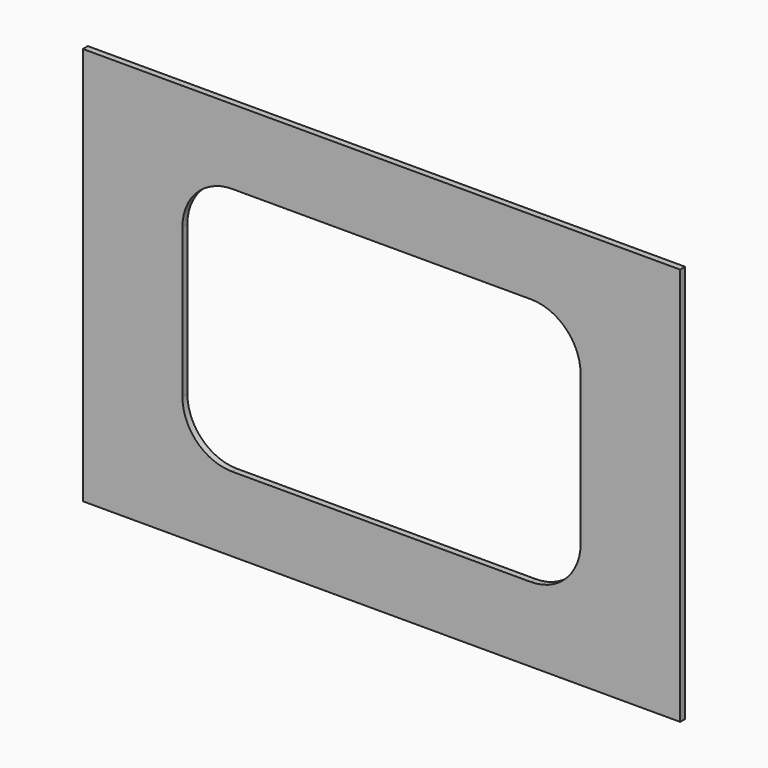
from build123d import *

# Parameters (mm, degrees)
F0_W     = 304.8
F0_H     = 203.2
F1_DEPTH = 3.175
F2_W     = 203.2
F2_H     = 127
F3_DEPTH = 25.4
F4_R     = 25.4


with BuildPart() as f1:
    # F0 (on Front) → F1 (new body)
    with BuildSketch(Plane.XZ):
        Rectangle(F0_W, F0_H)
    extrude(amount=F1_DEPTH)

    # F2 (on face) → F3 (cut)
    with BuildSketch(Plane.XZ.offset(3.175)):
        Rectangle(F2_W, F2_H)
    extrude(amount=-F3_DEPTH, mode=Mode.SUBTRACT)

    # F4
    f4_edges = [f1.edges().sort_by_distance(p)[0] for p in [
        (-101.6, -1.5875, 63.5),
        (-101.6, -1.5875, -63.5),
        (101.6, -1.5875, -63.5),
        (101.6, -1.5875, 63.5),
    ]]
    fillet(f4_edges, radius=F4_R)


solid = f1.part
